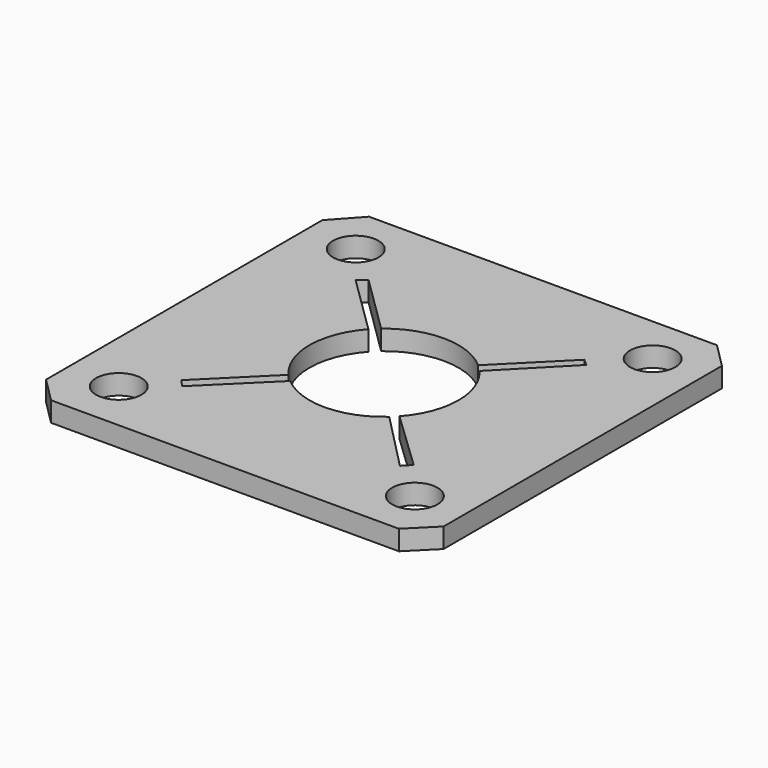
from build123d import *

# Parameters (mm, degrees)
SKETCH_R  = 1.822871
PAD_DEPTH = 1.6


with BuildPart() as part:
    # Sketch → Pad (new body)
    with BuildSketch(Plane.XY):
        Polygon((14, 16), (16, 14), (16, -14), (14, -16), (-14, -16), (-16, -14), (-16, 13.796185), (-14, 16), align=None)
        with Locations((-11.9, 12.032497)):
            Circle(SKETCH_R, mode=Mode.SUBTRACT)
        with Locations((12, 12.032497)):
            Circle(SKETCH_R, mode=Mode.SUBTRACT)
        with Locations((-11.852346, -11.872872)):
            Circle(SKETCH_R, mode=Mode.SUBTRACT)
        with Locations((12, -11.9)):
            Circle(SKETCH_R, mode=Mode.SUBTRACT)
        with BuildLine():
            ThreePointArc((3.984503, 4.492219), (0.062772, 6.004362), (-3.889715, 4.57454))
            Line((-3.889715, 4.57454), (-8.654236, 9.264053))
            Line((-8.654236, 9.264053), (-9.260711, 8.720268))
            Line((-9.260711, 8.720268), (-4.466236, 4.013607))
            ThreePointArc((-4.466236, 4.013607), (-6.00462, 0.029046), (-4.504856, -3.970211))
            Line((-9.309208, -8.743832), (-4.504856, -3.970211))
            Line((-8.762374, -9.368784), (-9.309208, -8.743832))
            Line((-3.901652, -4.564363), (-8.762374, -9.368784))
            ThreePointArc((-3.901652, -4.564363), (0.06724, -6.004314), (4.00289, -4.475843))
            Line((8.697231, -9.271135), (4.00289, -4.475843))
            Line((9.302653, -8.638371), (8.697231, -9.271135))
            Line((4.46051, -4.019969), (9.302653, -8.638371))
            ThreePointArc((4.46051, -4.019969), (6.004416, -0.057401), (4.536548, 3.933959))
            Line((9.274082, 8.77581), (4.536548, 3.933959))
            Line((8.727249, 9.244524), (9.274082, 8.77581))
            Line((3.984503, 4.492219), (8.727249, 9.244524))
        make_face(mode=Mode.SUBTRACT)
    extrude(amount=-PAD_DEPTH)


solid = part.part
